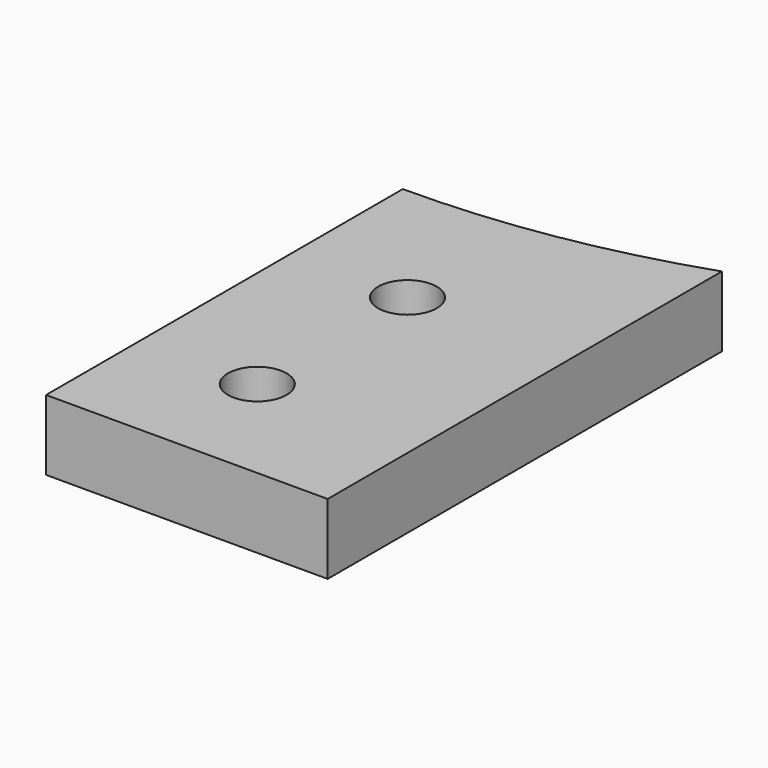
from build123d import *

# Parameters (mm, degrees)
CYLINDER963_R          = 2.5
CYLINDER963_DEPTH      = 20
CYLINDER961_R          = 2.5
CYLINDER961_DEPTH      = 20
CYLINDER962_R          = 74
CYLINDER962_DEPTH      = 10
BOX477_W               = 51
BOX477_H               = 24
BOX477_DEPTH           = 6
CUT444_PLACEMENT_ANGLE = 90


with BuildPart() as obj1:
    # Cylinder963 → Cylinder963 (new body)
    with BuildSketch(Plane(origin=(-86, -10, 66), x_dir=(1, 0, 0), z_dir=(0, 0, 1))):
        Circle(CYLINDER963_R)
    extrude(amount=CYLINDER963_DEPTH)


with BuildPart() as compound519:
    # Cylinder961 → Cylinder961 (new body)
    with BuildSketch(Plane(origin=(-102, -10, 66), x_dir=(1, 0, 0), z_dir=(0, 0, 1))):
        Circle(CYLINDER961_R)
    extrude(amount=CYLINDER961_DEPTH)

    # Compound519: union obj1
    add(obj1.part)


with BuildPart() as obj2:
    # Cylinder962 → Cylinder962 (new body)
    with BuildSketch(Plane.XY.offset(72)):
        Circle(CYLINDER962_R)
    extrude(amount=CYLINDER962_DEPTH)


with BuildPart() as cut444:
    # Box477 → Box477 (new body)
    with BuildSketch(Plane(origin=(-112, -24, 76), x_dir=(1, 0, 0), z_dir=(0, 0, 1))):
        with Locations((25.5, 12)):
            Rectangle(BOX477_W, BOX477_H)
    extrude(amount=BOX477_DEPTH)

    # Cut445: cut obj2
    add(obj2.part, mode=Mode.SUBTRACT)

    # Cut444: cut Compound519
    add(compound519.part, mode=Mode.SUBTRACT)


with BuildPart() as cut444_1:
    # Cut444 placement: moved
    add(cut444.part.rotate(Axis((0, 0, 0), (0, 0, 1)), CUT444_PLACEMENT_ANGLE))


solid = cut444_1.part
